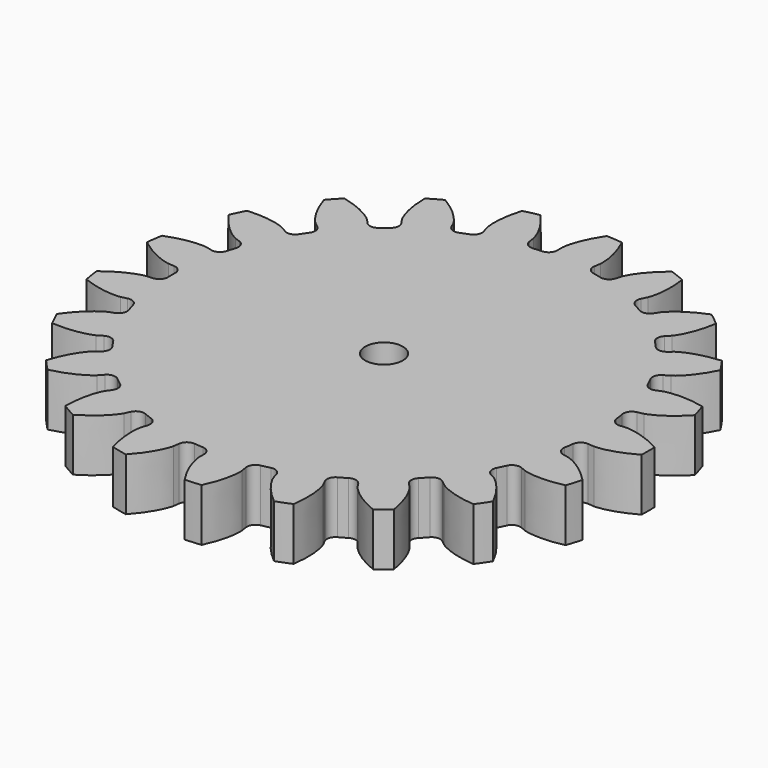
from build123d import *

# Parameters (mm, degrees)
CYLINDER001_R     = 2.5
CYLINDER001_DEPTH = 30
PAD_DEPTH         = 7


with BuildPart() as hole:
    # Cylinder001 → Cylinder001 (new body)
    with BuildSketch(Plane.XY.offset(-10)):
        Circle(CYLINDER001_R)
    extrude(amount=CYLINDER001_DEPTH)


with BuildPart() as clone_of_gear:
    # InvoluteGear → Pad (new body)
    with BuildSketch(Plane.XY):
        with BuildLine():
            Line((29.216017, -2.627852), (30.02668, -2.698596))
            add(Edge.make_bspline(
                [(30.02668, -2.698596), (30.269336, -2.702327), (31.240634, -2.684194), (32.940327, -2.265756), (35.058609, -1.065575)],
                knots=[0, 0, 0, 0, 0, 1, 1, 1, 1, 1], degree=4))
            ThreePointArc((35.058609, -1.065575), (35.074799, 0), (35.058609, 1.065575))
            add(Edge.make_bspline(
                [(35.058609, 1.065575), (32.940327, 2.265756), (31.240634, 2.684194), (30.269336, 2.702327), (30.02668, 2.698596)],
                knots=[0, 0, 0, 0, 0, 1, 1, 1, 1, 1], degree=4))
            Line((30.02668, 2.698596), (29.216017, 2.627852))
            ThreePointArc((29.216017, 2.627852), (28.398075, 2.874673), (27.979368, 3.61941))
            ThreePointArc((27.979368, 3.61941), (27.89739, 4.204855), (27.803163, 4.788454))
            ThreePointArc((27.803163, 4.788454), (27.983753, 5.62352), (28.692604, 6.100468))
            Line((28.692604, 6.100468), (29.488104, 6.271815))
            add(Edge.make_bspline(
                [(29.488104, 6.271815), (29.72108, 6.339774), (30.64388, 6.643396), (32.144724, 7.544237), (33.815137, 9.315472)],
                knots=[0, 0, 0, 0, 0, 1, 1, 1, 1, 1], degree=4))
            ThreePointArc((33.815137, 9.315472), (33.516524, 10.338478), (33.18697, 11.351941))
            add(Edge.make_bspline(
                [(33.18697, 11.351941), (30.809038, 11.874427), (29.06152, 11.773281), (28.12803, 11.504313), (27.897254, 11.429224)],
                knots=[0, 0, 0, 0, 0, 1, 1, 1, 1, 1], degree=4))
            Line((27.897254, 11.429224), (27.143458, 11.122676))
            ThreePointArc((27.143458, 11.122676), (26.289104, 11.117439), (25.669483, 11.705673))
            ThreePointArc((25.669483, 11.705673), (25.418584, 12.240945), (25.156525, 12.770842))
            ThreePointArc((25.156525, 12.770842), (25.082952, 13.622039), (25.619728, 14.286735))
            Line((25.619728, 14.286735), (26.32938, 14.684947))
            add(Edge.make_bspline(
                [(26.32938, 14.684947), (26.531974, 14.818557), (27.324283, 15.380691), (28.492921, 16.683892), (29.567042, 18.868799)],
                knots=[0, 0, 0, 0, 0, 1, 1, 1, 1, 1], degree=4))
            ThreePointArc((29.567042, 18.868799), (28.980159, 19.758338), (28.366523, 20.629637))
            add(Edge.make_bspline(
                [(28.366523, 20.629637), (25.94023, 20.428003), (24.300163, 19.816261), (23.487425, 19.284092), (23.289034, 19.144315)],
                knots=[0, 0, 0, 0, 0, 1, 1, 1, 1, 1], degree=4))
            Line((23.289034, 19.144315), (22.659084, 18.629202))
            ThreePointArc((22.659084, 18.629202), (21.84423, 18.372372), (21.078752, 18.751836))
            ThreePointArc((21.078752, 18.751836), (20.681226, 19.189373), (20.274619, 19.618485))
            ThreePointArc((20.274619, 19.618485), (19.95342, 20.41018), (20.270426, 21.203563))
            Line((20.270426, 21.203563), (20.831176, 21.793257))
            add(Edge.make_bspline(
                [(20.831176, 21.793257), (20.985387, 21.980647), (21.576804, 22.751344), (22.309397, 24.341109), (22.691785, 26.745549)],
                knots=[0, 0, 0, 0, 0, 1, 1, 1, 1, 1], degree=4))
            ThreePointArc((22.691785, 26.745549), (21.868779, 27.422582), (21.025585, 28.074299))
            add(Edge.make_bspline(
                [(21.025585, 28.074299), (18.766519, 27.166461), (17.37963, 26.098479), (16.759858, 25.350393), (16.611482, 25.15835)],
                knots=[0, 0, 0, 0, 0, 1, 1, 1, 1, 1], degree=4))
            Line((16.611482, 25.15835), (16.161351, 24.480441))
            ThreePointArc((16.161351, 24.480441), (15.4584, 23.994839), (14.615082, 24.131816))
            ThreePointArc((14.615082, 24.131816), (14.10625, 24.432742), (13.591225, 24.72294))
            ThreePointArc((13.591225, 24.72294), (13.05094, 25.384787), (13.120008, 26.236361))
            Line((13.120008, 26.236361), (13.48203, 26.96514))
            add(Edge.make_bspline(
                [(13.48203, 26.96514), (13.574155, 27.18966), (13.912131, 28.10044), (14.143586, 29.835512), (13.800264, 32.245841)],
                knots=[0, 0, 0, 0, 0, 1, 1, 1, 1, 1], degree=4))
            ThreePointArc((13.800264, 32.245841), (12.814263, 32.65021), (11.816433, 33.024437))
            add(Edge.make_bspline(
                [(11.816433, 33.024437), (9.92532, 31.49106), (8.91484, 30.061732), (8.543105, 29.164202), (8.457926, 28.936956)],
                knots=[0, 0, 0, 0, 0, 1, 1, 1, 1, 1], degree=4))
            Line((8.457926, 28.936956), (8.227611, 28.156485))
            ThreePointArc((8.227611, 28.156485), (7.699024, 27.485259), (6.852797, 27.367578))
            ThreePointArc((6.852797, 27.367578), (6.277872, 27.505154), (5.70019, 27.630653))
            ThreePointArc((5.70019, 27.630653), (4.988826, 28.103844), (4.80382, 28.937943))
            Line((4.80382, 28.937943), (4.934946, 29.741053))
            add(Edge.make_bspline(
                [(4.934946, 29.741053), (4.956801, 29.982752), (5.011304, 30.952689), (4.721054, 32.678899), (3.682528, 34.880948)],
                knots=[0, 0, 0, 0, 0, 1, 1, 1, 1, 1], degree=4))
            ThreePointArc((3.682528, 34.880948), (2.621143, 34.976723), (1.557338, 35.040209))
            add(Edge.make_bspline(
                [(1.557338, 35.040209), (0.202213, 33.01754), (-0.342073, 31.353869), (-0.43274, 30.386642), (-0.447153, 30.144385)],
                knots=[0, 0, 0, 0, 0, 1, 1, 1, 1, 1], degree=4))
            Line((-0.447153, 30.144385), (-0.437188, 29.330703))
            ThreePointArc((-0.437188, 29.330703), (-0.744444, 28.533493), (-1.518389, 28.171611))
            ThreePointArc((-1.518389, 28.171611), (-2.108323, 28.133612), (-2.697331, 28.083261))
            ThreePointArc((-2.697331, 28.083261), (-3.516567, 28.325751), (-3.939209, 29.068262))
            Line((-3.939209, 29.068262), (-4.050629, 29.874342))
            add(Edge.make_bspline(
                [(-4.050629, 29.874342), (-4.100987, 30.111745), (-4.3348, 31.054656), (-5.120964, 32.618623), (-6.762416, 34.416729)],
                knots=[0, 0, 0, 0, 0, 1, 1, 1, 1, 1], degree=4))
            ThreePointArc((-6.762416, 34.416729), (-7.804877, 34.195401), (-8.840133, 33.942504))
            add(Edge.make_bspline(
                [(-8.840133, 33.942504), (-9.538861, 31.610267), (-9.56859, 29.860077), (-9.370135, 28.909097), (-9.312501, 28.673354)],
                knots=[0, 0, 0, 0, 0, 1, 1, 1, 1, 1], degree=4))
            Line((-9.312501, 28.673354), (-9.063142, 27.898758))
            ThreePointArc((-9.063142, 27.898758), (-9.121765, 27.046401), (-9.754659, 26.472472))
            ThreePointArc((-9.754659, 26.472472), (-10.307184, 26.262276), (-10.855183, 26.040548))
            ThreePointArc((-10.855183, 26.040548), (-11.709498, 26.030791), (-12.332222, 26.615739))
            Line((-12.332222, 26.615739), (-12.676288, 27.353165))
            add(Edge.make_bspline(
                [(-12.676288, 27.353165), (-12.794385, 27.565178), (-13.295737, 28.39728), (-14.507962, 29.660038), (-16.60649, 30.894434)],
                knots=[0, 0, 0, 0, 0, 1, 1, 1, 1, 1], degree=4))
            ThreePointArc((-16.60649, 30.894434), (-17.537399, 30.375667), (-18.452119, 29.828859))
            add(Edge.make_bspline(
                [(-18.452119, 29.828859), (-18.432366, 27.394282), (-17.944897, 25.713086), (-17.474952, 24.862851), (-17.350392, 24.65457)],
                knots=[0, 0, 0, 0, 0, 1, 1, 1, 1, 1], degree=4))
            Line((-17.350392, 24.65457), (-16.883795, 23.987887))
            ThreePointArc((-16.883795, 23.987887), (-16.688578, 23.156118), (-17.124185, 22.421138))
            ThreePointArc((-17.124185, 22.421138), (-17.590206, 22.057421), (-18.048504, 21.684019))
            ThreePointArc((-18.048504, 21.684019), (-18.861988, 21.422881), (-19.629463, 21.79829))
            Line((-19.629463, 21.79829), (-20.175603, 22.401539))
            add(Edge.make_bspline(
                [(-20.175603, 22.401539), (-20.350945, 22.569323), (-21.07529, 23.216681), (-22.605863, 24.066029), (-24.975004, 24.627032)],
                knots=[0, 0, 0, 0, 0, 1, 1, 1, 1, 1], degree=4))
            ThreePointArc((-24.975004, 24.627032), (-25.711647, 23.856922), (-26.424554, 23.064789))
            add(Edge.make_bspline(
                [(-26.424554, 23.064789), (-25.688074, 20.744196), (-24.726721, 19.281374), (-24.027043, 18.607432), (-23.846625, 18.445118)],
                knots=[0, 0, 0, 0, 0, 1, 1, 1, 1, 1], degree=4))
            Line((-23.846625, 18.445118), (-23.204249, 17.945586))
            ThreePointArc((-23.204249, 17.945586), (-22.772537, 17.208312), (-22.972152, 16.377588))
            ThreePointArc((-22.972152, 16.377588), (-23.310261, 15.892667), (-23.638136, 15.400768))
            ThreePointArc((-23.638136, 15.400768), (-24.338508, 14.911454), (-25.182539, 15.043968))
            Line((-25.182539, 15.043968), (-25.882227, 15.459439))
            add(Edge.make_bspline(
                [(-25.882227, 15.459439), (-26.099234, 15.568085), (-26.982211, 15.973178), (-28.695135, 16.333648), (-31.12438, 16.17141)],
                knots=[0, 0, 0, 0, 0, 1, 1, 1, 1, 1], degree=4))
            ThreePointArc((-31.12438, 16.17141), (-31.601302, 15.218385), (-32.049051, 14.251311))
            add(Edge.make_bspline(
                [(-32.049051, 14.251311), (-30.661284, 12.250897), (-29.311467, 11.136428), (-28.444225, 10.698661), (-28.22398, 10.596737)],
                knots=[0, 0, 0, 0, 0, 1, 1, 1, 1, 1], degree=4))
            Line((-28.22398, 10.596737), (-27.462904, 10.308742))
            ThreePointArc((-27.462904, 10.308742), (-26.833056, 9.731472), (-26.778943, 8.878817))
            ThreePointArc((-26.778943, 8.878817), (-26.959098, 8.31578), (-27.127416, 7.749093))
            ThreePointArc((-27.127416, 7.749093), (-27.652445, 7.075079), (-28.498037, 6.952923))
            Line((-28.498037, 6.952923), (-29.289102, 7.143699))
            add(Edge.make_bspline(
                [(-29.289102, 7.143699), (-29.528492, 7.183554), (-30.491644, 7.310388), (-32.234718, 7.14995), (-34.508218, 6.278888)],
                knots=[0, 0, 0, 0, 0, 1, 1, 1, 1, 1], degree=4))
            ThreePointArc((-34.508218, 6.278888), (-34.683042, 5.227628), (-34.825849, 4.171541))
            add(Edge.make_bspline(
                [(-34.825849, 4.171541), (-32.910105, 2.669052), (-31.29176, 2.001961), (-30.334014, 1.839267), (-30.093511, 1.80679)],
                knots=[0, 0, 0, 0, 0, 1, 1, 1, 1, 1], degree=4))
            Line((-30.093511, 1.80679), (-29.281359, 1.75592))
            ThreePointArc((-29.281359, 1.75592), (-28.50934, 1.389948), (-28.206307, 0.591124))
            ThreePointArc((-28.206307, 0.591124), (-28.2125, 0), (-28.206307, -0.591124))
            ThreePointArc((-28.206307, -0.591124), (-28.50934, -1.389948), (-29.281359, -1.75592))
            Line((-29.281359, -1.75592), (-30.093511, -1.80679))
            add(Edge.make_bspline(
                [(-30.093511, -1.80679), (-30.334014, -1.839267), (-31.29176, -2.001961), (-32.910105, -2.669052), (-34.825849, -4.171541)],
                knots=[0, 0, 0, 0, 0, 1, 1, 1, 1, 1], degree=4))
            ThreePointArc((-34.825849, -4.171541), (-34.683042, -5.227628), (-34.508218, -6.278888))
            add(Edge.make_bspline(
                [(-34.508218, -6.278888), (-32.234718, -7.14995), (-30.491644, -7.310388), (-29.528492, -7.183554), (-29.289102, -7.143699)],
                knots=[0, 0, 0, 0, 0, 1, 1, 1, 1, 1], degree=4))
            Line((-29.289102, -7.143699), (-28.498037, -6.952923))
            ThreePointArc((-28.498037, -6.952923), (-27.652445, -7.075079), (-27.127416, -7.749093))
            ThreePointArc((-27.127416, -7.749093), (-26.959098, -8.31578), (-26.778943, -8.878817))
            ThreePointArc((-26.778943, -8.878817), (-26.833056, -9.731472), (-27.462904, -10.308742))
            Line((-27.462904, -10.308742), (-28.22398, -10.596737))
            add(Edge.make_bspline(
                [(-28.22398, -10.596737), (-28.444225, -10.698661), (-29.311467, -11.136428), (-30.661284, -12.250897), (-32.049051, -14.251311)],
                knots=[0, 0, 0, 0, 0, 1, 1, 1, 1, 1], degree=4))
            ThreePointArc((-32.049051, -14.251311), (-31.601302, -15.218385), (-31.12438, -16.17141))
            add(Edge.make_bspline(
                [(-31.12438, -16.17141), (-28.695135, -16.333648), (-26.982211, -15.973178), (-26.099234, -15.568085), (-25.882227, -15.459439)],
                knots=[0, 0, 0, 0, 0, 1, 1, 1, 1, 1], degree=4))
            Line((-25.882227, -15.459439), (-25.182539, -15.043968))
            ThreePointArc((-25.182539, -15.043968), (-24.338508, -14.911454), (-23.638136, -15.400768))
            ThreePointArc((-23.638136, -15.400768), (-23.310261, -15.892667), (-22.972152, -16.377588))
            ThreePointArc((-22.972152, -16.377588), (-22.772537, -17.208312), (-23.204249, -17.945586))
            Line((-23.204249, -17.945586), (-23.846625, -18.445118))
            add(Edge.make_bspline(
                [(-23.846625, -18.445118), (-24.027043, -18.607432), (-24.726721, -19.281374), (-25.688074, -20.744196), (-26.424554, -23.064789)],
                knots=[0, 0, 0, 0, 0, 1, 1, 1, 1, 1], degree=4))
            ThreePointArc((-26.424554, -23.064789), (-25.711647, -23.856922), (-24.975004, -24.627032))
            add(Edge.make_bspline(
                [(-24.975004, -24.627032), (-22.605863, -24.066029), (-21.07529, -23.216681), (-20.350945, -22.569323), (-20.175603, -22.401539)],
                knots=[0, 0, 0, 0, 0, 1, 1, 1, 1, 1], degree=4))
            Line((-20.175603, -22.401539), (-19.629463, -21.79829))
            ThreePointArc((-19.629463, -21.79829), (-18.861988, -21.422881), (-18.048504, -21.684019))
            ThreePointArc((-18.048504, -21.684019), (-17.590206, -22.057421), (-17.124185, -22.421138))
            ThreePointArc((-17.124185, -22.421138), (-16.688578, -23.156118), (-16.883795, -23.987887))
            Line((-16.883795, -23.987887), (-17.350392, -24.65457))
            add(Edge.make_bspline(
                [(-17.350392, -24.65457), (-17.474952, -24.862851), (-17.944897, -25.713086), (-18.432366, -27.394282), (-18.452119, -29.828859)],
                knots=[0, 0, 0, 0, 0, 1, 1, 1, 1, 1], degree=4))
            ThreePointArc((-18.452119, -29.828859), (-17.537399, -30.375667), (-16.60649, -30.894434))
            add(Edge.make_bspline(
                [(-16.60649, -30.894434), (-14.507962, -29.660038), (-13.295737, -28.39728), (-12.794385, -27.565178), (-12.676288, -27.353165)],
                knots=[0, 0, 0, 0, 0, 1, 1, 1, 1, 1], degree=4))
            Line((-12.676288, -27.353165), (-12.332222, -26.615739))
            ThreePointArc((-12.332222, -26.615739), (-11.709498, -26.030791), (-10.855183, -26.040548))
            ThreePointArc((-10.855183, -26.040548), (-10.307184, -26.262276), (-9.754659, -26.472472))
            ThreePointArc((-9.754659, -26.472472), (-9.121765, -27.046401), (-9.063142, -27.898758))
            Line((-9.063142, -27.898758), (-9.312501, -28.673354))
            add(Edge.make_bspline(
                [(-9.312501, -28.673354), (-9.370135, -28.909097), (-9.56859, -29.860077), (-9.538861, -31.610267), (-8.840133, -33.942504)],
                knots=[0, 0, 0, 0, 0, 1, 1, 1, 1, 1], degree=4))
            ThreePointArc((-8.840133, -33.942504), (-7.804877, -34.195401), (-6.762416, -34.416729))
            add(Edge.make_bspline(
                [(-6.762416, -34.416729), (-5.120964, -32.618623), (-4.3348, -31.054656), (-4.100987, -30.111745), (-4.050629, -29.874342)],
                knots=[0, 0, 0, 0, 0, 1, 1, 1, 1, 1], degree=4))
            Line((-4.050629, -29.874342), (-3.939209, -29.068262))
            ThreePointArc((-3.939209, -29.068262), (-3.516567, -28.325751), (-2.697331, -28.083261))
            ThreePointArc((-2.697331, -28.083261), (-2.108323, -28.133612), (-1.518389, -28.171611))
            ThreePointArc((-1.518389, -28.171611), (-0.744444, -28.533493), (-0.437188, -29.330703))
            Line((-0.437188, -29.330703), (-0.447153, -30.144385))
            add(Edge.make_bspline(
                [(-0.447153, -30.144385), (-0.43274, -30.386642), (-0.342073, -31.353869), (0.202213, -33.01754), (1.557338, -35.040209)],
                knots=[0, 0, 0, 0, 0, 1, 1, 1, 1, 1], degree=4))
            ThreePointArc((1.557338, -35.040209), (2.621143, -34.976723), (3.682528, -34.880948))
            add(Edge.make_bspline(
                [(3.682528, -34.880948), (4.721054, -32.678899), (5.011304, -30.952689), (4.956801, -29.982752), (4.934946, -29.741053)],
                knots=[0, 0, 0, 0, 0, 1, 1, 1, 1, 1], degree=4))
            Line((4.934946, -29.741053), (4.80382, -28.937943))
            ThreePointArc((4.80382, -28.937943), (4.988826, -28.103844), (5.70019, -27.630653))
            ThreePointArc((5.70019, -27.630653), (6.277872, -27.505154), (6.852797, -27.367578))
            ThreePointArc((6.852797, -27.367578), (7.699024, -27.485259), (8.227611, -28.156485))
            Line((8.227611, -28.156485), (8.457926, -28.936956))
            add(Edge.make_bspline(
                [(8.457926, -28.936956), (8.543105, -29.164202), (8.91484, -30.061732), (9.92532, -31.49106), (11.816433, -33.024437)],
                knots=[0, 0, 0, 0, 0, 1, 1, 1, 1, 1], degree=4))
            ThreePointArc((11.816433, -33.024437), (12.814263, -32.65021), (13.800264, -32.245841))
            add(Edge.make_bspline(
                [(13.800264, -32.245841), (14.143586, -29.835512), (13.912131, -28.10044), (13.574155, -27.18966), (13.48203, -26.96514)],
                knots=[0, 0, 0, 0, 0, 1, 1, 1, 1, 1], degree=4))
            Line((13.48203, -26.96514), (13.120008, -26.236361))
            ThreePointArc((13.120008, -26.236361), (13.05094, -25.384787), (13.591225, -24.72294))
            ThreePointArc((13.591225, -24.72294), (14.10625, -24.432742), (14.615082, -24.131816))
            ThreePointArc((14.615082, -24.131816), (15.4584, -23.994839), (16.161351, -24.480441))
            Line((16.161351, -24.480441), (16.611482, -25.15835))
            add(Edge.make_bspline(
                [(16.611482, -25.15835), (16.759858, -25.350393), (17.37963, -26.098479), (18.766519, -27.166461), (21.025585, -28.074299)],
                knots=[0, 0, 0, 0, 0, 1, 1, 1, 1, 1], degree=4))
            ThreePointArc((21.025585, -28.074299), (21.868779, -27.422582), (22.691785, -26.745549))
            add(Edge.make_bspline(
                [(22.691785, -26.745549), (22.309397, -24.341109), (21.576804, -22.751344), (20.985387, -21.980647), (20.831176, -21.793257)],
                knots=[0, 0, 0, 0, 0, 1, 1, 1, 1, 1], degree=4))
            Line((20.831176, -21.793257), (20.270426, -21.203563))
            ThreePointArc((20.270426, -21.203563), (19.95342, -20.41018), (20.274619, -19.618485))
            ThreePointArc((20.274619, -19.618485), (20.681226, -19.189373), (21.078752, -18.751836))
            ThreePointArc((21.078752, -18.751836), (21.84423, -18.372372), (22.659084, -18.629202))
            Line((22.659084, -18.629202), (23.289034, -19.144315))
            add(Edge.make_bspline(
                [(23.289034, -19.144315), (23.487425, -19.284092), (24.300163, -19.816261), (25.94023, -20.428003), (28.366523, -20.629637)],
                knots=[0, 0, 0, 0, 0, 1, 1, 1, 1, 1], degree=4))
            ThreePointArc((28.366523, -20.629637), (28.980159, -19.758338), (29.567042, -18.868799))
            add(Edge.make_bspline(
                [(29.567042, -18.868799), (28.492921, -16.683892), (27.324283, -15.380691), (26.531974, -14.818557), (26.32938, -14.684947)],
                knots=[0, 0, 0, 0, 0, 1, 1, 1, 1, 1], degree=4))
            Line((26.32938, -14.684947), (25.619728, -14.286735))
            ThreePointArc((25.619728, -14.286735), (25.082952, -13.622039), (25.156525, -12.770842))
            ThreePointArc((25.156525, -12.770842), (25.418584, -12.240945), (25.669483, -11.705673))
            ThreePointArc((25.669483, -11.705673), (26.289104, -11.117439), (27.143458, -11.122676))
            Line((27.143458, -11.122676), (27.897254, -11.429224))
            add(Edge.make_bspline(
                [(27.897254, -11.429224), (28.12803, -11.504313), (29.06152, -11.773281), (30.809038, -11.874427), (33.18697, -11.351941)],
                knots=[0, 0, 0, 0, 0, 1, 1, 1, 1, 1], degree=4))
            ThreePointArc((33.18697, -11.351941), (33.516524, -10.338478), (33.815137, -9.315472))
            add(Edge.make_bspline(
                [(33.815137, -9.315472), (32.144724, -7.544237), (30.64388, -6.643396), (29.72108, -6.339774), (29.488104, -6.271815)],
                knots=[0, 0, 0, 0, 0, 1, 1, 1, 1, 1], degree=4))
            Line((29.488104, -6.271815), (28.692604, -6.100468))
            ThreePointArc((28.692604, -6.100468), (27.983753, -5.62352), (27.803163, -4.788454))
            ThreePointArc((27.803163, -4.788454), (27.89739, -4.204855), (27.979368, -3.61941))
            ThreePointArc((27.979368, -3.61941), (28.398075, -2.874673), (29.216017, -2.627852))
        make_face()
    extrude(amount=PAD_DEPTH)

    # Cut: cut hole
    add(hole.part, mode=Mode.SUBTRACT)


solid = clone_of_gear.part
